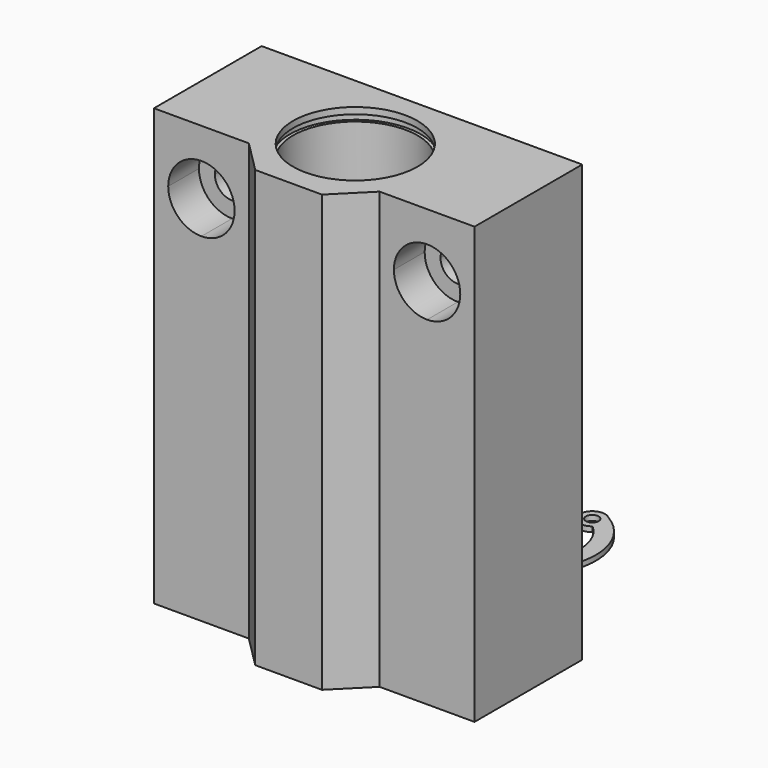
from build123d import *

# Parameters (mm, degrees)
F0_W      = 12.8
F0_H      = 8
F0_W_2    = 2
F1_DEPTH  = 68
F2_DEPTH  = 32.4
F3_DEPTH  = 2
F4_DEPTH  = 1
F5_R      = 9.7
F5_R_2    = 8.5
F6_DEPTH  = 32.4
F5_R_3    = 10.2
F7_DEPTH  = 2
F8_DEPTH  = 1
F10_DEPTH = 21
F11_DEPTH = 15
F12_R     = 1
F13_DEPTH = 0.8


with BuildPart() as f1:
    # F0 (on Top) → F1 (new body)
    with BuildSketch(Plane.XY):
        Polygon((-10.2, 13), (-25, 13), (-25, 5), (-23, 3), (-23, 0), (-10.2, 0), align=None)
        with BuildLine():
            Line((0, 13), (-10.2, 13))
            Line((-10.2, 13), (-10.2, 0))
            ThreePointArc((-10.2, 0), (-7.2124891681, 7.2124891681), (0, 10.2))
            Line((0, 10.2), (0, 13))
        make_face()
        with BuildLine():
            Line((10.2, 13), (0, 13))
            Line((0, 13), (0, 10.2))
            ThreePointArc((0, 10.2), (7.2124891681, 7.2124891681), (10.2, 0))
            Line((10.2, 0), (10.2, 13))
        make_face()
        Polygon((25, 13), (10.2, 13), (10.2, 0), (23, 0), (23, 3), (25, 5), align=None)
        with BuildLine():
            ThreePointArc((0, -10.2), (-3.3496268449, -9.6343136756), (-6.3277168078, -8))
            Line((-6.3277168078, -8), (-10.2, -8))
            Line((-10.2, -8), (-5.2, -13))
            Line((-5.2, -13), (0, -13))
            Line((0, -13), (0, -10.2))
        make_face()
        with Locations((-16.6, -4)):
            Rectangle(F0_W, F0_H)
        with BuildLine():
            ThreePointArc((-6.3277168078, -8), (-9.1810323886, -4.4439446756), (-10.2, 0))
            Line((-10.2, 0), (-10.2, -8))
            Line((-10.2, -8), (-6.3277168078, -8))
        make_face()
        with Locations((16.6, -4)):
            Rectangle(F0_W, F0_H)
        with BuildLine():
            Line((10.2, -8), (10.2, 0))
            ThreePointArc((10.2, 0), (9.1810323886, -4.4439446756), (6.3277168078, -8))
            Line((6.3277168078, -8), (10.2, -8))
        make_face()
        with BuildLine():
            ThreePointArc((6.3277168078, -8), (3.3496268449, -9.6343136756), (0, -10.2))
            Line((0, -10.2), (0, -13))
            Line((0, -13), (5.2, -13))
            Line((5.2, -13), (10.2, -8))
            Line((10.2, -8), (6.3277168078, -8))
        make_face()
        with BuildLine():
            Line((-9.7, 0), (-10.2, 0))
            ThreePointArc((-10.2, 0), (-9.1810323886, -4.4439446756), (-6.3277168078, -8))
            Line((-6.3277168078, -8), (-5.4854352608, -8))
            ThreePointArc((-5.4854352608, -8), (-8.5819205901, -4.5211324892), (-9.7, 0))
        make_face()
        with BuildLine():
            Line((-5.4854352608, -8), (-6.3277168078, -8))
            ThreePointArc((-6.3277168078, -8), (-3.3496268449, -9.6343136756), (0, -10.2))
            Line((0, -10.2), (0, -9.7))
            ThreePointArc((0, -9.7), (-2.8714108031, -9.2652576866), (-5.4854352608, -8))
        make_face()
        with BuildLine():
            Line((0, -9.7), (0, -10.2))
            ThreePointArc((0, -10.2), (3.3496268449, -9.6343136756), (6.3277168078, -8))
            Line((6.3277168078, -8), (5.4854352608, -8))
            ThreePointArc((5.4854352608, -8), (2.8714108031, -9.2652576866), (0, -9.7))
        make_face()
        with BuildLine():
            ThreePointArc((6.3277168078, -8), (9.1810323886, -4.4439446756), (10.2, 0))
            Line((10.2, 0), (9.7, 0))
            ThreePointArc((9.7, 0), (8.5819205901, -4.5211324892), (5.4854352608, -8))
            Line((5.4854352608, -8), (6.3277168078, -8))
        make_face()
        with BuildLine():
            ThreePointArc((10.2, 0), (7.2124891681, 7.2124891681), (0, 10.2))
            Line((0, 10.2), (0, 9.7))
            ThreePointArc((0, 9.7), (6.8589357775, 6.8589357775), (9.7, 0))
            Line((9.7, 0), (10.2, 0))
        make_face()
        with BuildLine():
            ThreePointArc((0, 10.2), (-7.2124891681, 7.2124891681), (-10.2, 0))
            Line((-10.2, 0), (-9.7, 0))
            ThreePointArc((-9.7, 0), (-6.8589357775, 6.8589357775), (0, 9.7))
            Line((0, 9.7), (0, 10.2))
        make_face()
        with BuildLine():
            ThreePointArc((0, 9.7), (-6.8589357775, 6.8589357775), (-9.7, 0))
            Line((-9.7, 0), (-8.5, 0))
            ThreePointArc((-8.5, 0), (-6.0104076401, 6.0104076401), (0, 8.5))
            Line((0, 8.5), (0, 9.7))
        make_face()
        with BuildLine():
            Line((-8.5, 0), (-9.7, 0))
            ThreePointArc((-9.7, 0), (-8.5819205901, -4.5211324892), (-5.4854352608, -8))
            Line((-5.4854352608, -8), (-2.8722813233, -8))
            ThreePointArc((-2.8722813233, -8), (-6.9521360476, -4.8905832348), (-8.5, 0))
        make_face()
        with BuildLine():
            Line((-2.8722813233, -8), (-5.4854352608, -8))
            ThreePointArc((-5.4854352608, -8), (-2.8714108031, -9.2652576866), (0, -9.7))
            Line((0, -9.7), (0, -8.5))
            ThreePointArc((0, -8.5), (-1.4577379737, -8.3740671122), (-2.8722813233, -8))
        make_face()
        with BuildLine():
            Line((0, -8.5), (0, -9.7))
            ThreePointArc((0, -9.7), (2.8714108031, -9.2652576866), (5.4854352608, -8))
            Line((5.4854352608, -8), (2.8722813233, -8))
            ThreePointArc((2.8722813233, -8), (1.4577379737, -8.3740671122), (0, -8.5))
        make_face()
        with BuildLine():
            ThreePointArc((5.4854352608, -8), (8.5819205901, -4.5211324892), (9.7, 0))
            Line((9.7, 0), (8.5, 0))
            ThreePointArc((8.5, 0), (6.9521360476, -4.8905832348), (2.8722813233, -8))
            Line((2.8722813233, -8), (5.4854352608, -8))
        make_face()
        with BuildLine():
            ThreePointArc((9.7, 0), (6.8589357775, 6.8589357775), (0, 9.7))
            Line((0, 9.7), (0, 8.5))
            ThreePointArc((0, 8.5), (6.0104076401, 6.0104076401), (8.5, 0))
            Line((8.5, 0), (9.7, 0))
        make_face()
        with Locations((24, -4)):
            Rectangle(F0_W_2, F0_H)
        Polygon((25, 3), (25, 5), (23, 3), (23, 0), (25, 0), align=None)
        with Locations((-24, -4)):
            Rectangle(F0_W_2, F0_H)
        Polygon((-23, 3), (-25, 5), (-25, 3), (-25, 0), (-23, 0), align=None)
    extrude(amount=F1_DEPTH)

    # F0 (on Top) → F2 (cut)
    with BuildSketch(Plane.XY):
        with BuildLine():
            Line((-8.5, 0), (-9.7, 0))
            ThreePointArc((-9.7, 0), (-8.5819205901, -4.5211324892), (-5.4854352608, -8))
            Line((-5.4854352608, -8), (-2.8722813233, -8))
            ThreePointArc((-2.8722813233, -8), (-6.9521360476, -4.8905832348), (-8.5, 0))
        make_face()
        with BuildLine():
            Line((-2.8722813233, -8), (-5.4854352608, -8))
            ThreePointArc((-5.4854352608, -8), (-2.8714108031, -9.2652576866), (0, -9.7))
            Line((0, -9.7), (0, -8.5))
            ThreePointArc((0, -8.5), (-1.4577379737, -8.3740671122), (-2.8722813233, -8))
        make_face()
        with BuildLine():
            Line((0, -8.5), (0, -9.7))
            ThreePointArc((0, -9.7), (2.8714108031, -9.2652576866), (5.4854352608, -8))
            Line((5.4854352608, -8), (2.8722813233, -8))
            ThreePointArc((2.8722813233, -8), (1.4577379737, -8.3740671122), (0, -8.5))
        make_face()
        with BuildLine():
            ThreePointArc((5.4854352608, -8), (8.5819205901, -4.5211324892), (9.7, 0))
            Line((9.7, 0), (8.5, 0))
            ThreePointArc((8.5, 0), (6.9521360476, -4.8905832348), (2.8722813233, -8))
            Line((2.8722813233, -8), (5.4854352608, -8))
        make_face()
        with BuildLine():
            ThreePointArc((9.7, 0), (6.8589357775, 6.8589357775), (0, 9.7))
            Line((0, 9.7), (0, 8.5))
            ThreePointArc((0, 8.5), (6.0104076401, 6.0104076401), (8.5, 0))
            Line((8.5, 0), (9.7, 0))
        make_face()
        with BuildLine():
            ThreePointArc((0, 9.7), (-6.8589357775, 6.8589357775), (-9.7, 0))
            Line((-9.7, 0), (-8.5, 0))
            ThreePointArc((-8.5, 0), (-6.0104076401, 6.0104076401), (0, 8.5))
            Line((0, 8.5), (0, 9.7))
        make_face()
    extrude(amount=F2_DEPTH, mode=Mode.SUBTRACT)

    # F0 (on Top) → F3 (cut)
    with BuildSketch(Plane.XY):
        with BuildLine():
            Line((0, -9.7), (0, -10.2))
            ThreePointArc((0, -10.2), (3.3496268449, -9.6343136756), (6.3277168078, -8))
            Line((6.3277168078, -8), (5.4854352608, -8))
            ThreePointArc((5.4854352608, -8), (2.8714108031, -9.2652576866), (0, -9.7))
        make_face()
        with BuildLine():
            ThreePointArc((6.3277168078, -8), (9.1810323886, -4.4439446756), (10.2, 0))
            Line((10.2, 0), (9.7, 0))
            ThreePointArc((9.7, 0), (8.5819205901, -4.5211324892), (5.4854352608, -8))
            Line((5.4854352608, -8), (6.3277168078, -8))
        make_face()
        with BuildLine():
            ThreePointArc((10.2, 0), (7.2124891681, 7.2124891681), (0, 10.2))
            Line((0, 10.2), (0, 9.7))
            ThreePointArc((0, 9.7), (6.8589357775, 6.8589357775), (9.7, 0))
            Line((9.7, 0), (10.2, 0))
        make_face()
        with BuildLine():
            ThreePointArc((0, 10.2), (-7.2124891681, 7.2124891681), (-10.2, 0))
            Line((-10.2, 0), (-9.7, 0))
            ThreePointArc((-9.7, 0), (-6.8589357775, 6.8589357775), (0, 9.7))
            Line((0, 9.7), (0, 10.2))
        make_face()
        with BuildLine():
            Line((-9.7, 0), (-10.2, 0))
            ThreePointArc((-10.2, 0), (-9.1810323886, -4.4439446756), (-6.3277168078, -8))
            Line((-6.3277168078, -8), (-5.4854352608, -8))
            ThreePointArc((-5.4854352608, -8), (-8.5819205901, -4.5211324892), (-9.7, 0))
        make_face()
        with BuildLine():
            Line((-5.4854352608, -8), (-6.3277168078, -8))
            ThreePointArc((-6.3277168078, -8), (-3.3496268449, -9.6343136756), (0, -10.2))
            Line((0, -10.2), (0, -9.7))
            ThreePointArc((0, -9.7), (-2.8714108031, -9.2652576866), (-5.4854352608, -8))
        make_face()
    extrude(amount=F3_DEPTH, mode=Mode.SUBTRACT)

    # F0 (on Top) → F4 (join)
    with BuildSketch(Plane.XY):
        with BuildLine():
            Line((-9.7, 0), (-10.2, 0))
            ThreePointArc((-10.2, 0), (-9.1810323886, -4.4439446756), (-6.3277168078, -8))
            Line((-6.3277168078, -8), (-5.4854352608, -8))
            ThreePointArc((-5.4854352608, -8), (-8.5819205901, -4.5211324892), (-9.7, 0))
        make_face()
        with BuildLine():
            Line((-5.4854352608, -8), (-6.3277168078, -8))
            ThreePointArc((-6.3277168078, -8), (-3.3496268449, -9.6343136756), (0, -10.2))
            Line((0, -10.2), (0, -9.7))
            ThreePointArc((0, -9.7), (-2.8714108031, -9.2652576866), (-5.4854352608, -8))
        make_face()
        with BuildLine():
            Line((0, -9.7), (0, -10.2))
            ThreePointArc((0, -10.2), (3.3496268449, -9.6343136756), (6.3277168078, -8))
            Line((6.3277168078, -8), (5.4854352608, -8))
            ThreePointArc((5.4854352608, -8), (2.8714108031, -9.2652576866), (0, -9.7))
        make_face()
        with BuildLine():
            ThreePointArc((6.3277168078, -8), (9.1810323886, -4.4439446756), (10.2, 0))
            Line((10.2, 0), (9.7, 0))
            ThreePointArc((9.7, 0), (8.5819205901, -4.5211324892), (5.4854352608, -8))
            Line((5.4854352608, -8), (6.3277168078, -8))
        make_face()
        with BuildLine():
            ThreePointArc((10.2, 0), (7.2124891681, 7.2124891681), (0, 10.2))
            Line((0, 10.2), (0, 9.7))
            ThreePointArc((0, 9.7), (6.8589357775, 6.8589357775), (9.7, 0))
            Line((9.7, 0), (10.2, 0))
        make_face()
        with BuildLine():
            ThreePointArc((0, 10.2), (-7.2124891681, 7.2124891681), (-10.2, 0))
            Line((-10.2, 0), (-9.7, 0))
            ThreePointArc((-9.7, 0), (-6.8589357775, 6.8589357775), (0, 9.7))
            Line((0, 9.7), (0, 10.2))
        make_face()
    extrude(amount=F4_DEPTH)

    # F5 (on face) → F6 (cut)
    with BuildSketch(Plane.XY.offset(68)):
        Circle(F5_R)
        Circle(F5_R_2, mode=Mode.SUBTRACT)
    extrude(amount=-F6_DEPTH, mode=Mode.SUBTRACT)

    # F5 (on face) → F7 (cut)
    with BuildSketch(Plane.XY.offset(68)):
        Circle(F5_R_3)
        Circle(F5_R, mode=Mode.SUBTRACT)
    extrude(amount=-F7_DEPTH, mode=Mode.SUBTRACT)

    # F5 (on face) → F8 (join)
    with BuildSketch(Plane.XY.offset(68)):
        Circle(F5_R_3)
        Circle(F5_R, mode=Mode.SUBTRACT)
    extrude(amount=-F8_DEPTH)

    # F9 (on face) → F10 (cut)
    with BuildSketch(Plane(origin=(0, 13, 0), x_dir=(-1, 0, 0), z_dir=(0, 1, 0))):
        with BuildLine():
            ThreePointArc((-12.425, 58), (-13.9407224074, 61.6592775926), (-17.6, 63.175))
            Line((-17.6, 63.175), (-17.6, 60.7))
            ThreePointArc((-17.6, 60.7), (-15.6908116908, 59.9091883092), (-14.9, 58))
            ThreePointArc((-14.9, 58), (-15.6908116908, 56.0908116908), (-17.6, 55.3))
            Line((-17.6, 55.3), (-17.6, 52.825))
            ThreePointArc((-17.6, 52.825), (-13.9407224074, 54.3407224074), (-12.425, 58))
        make_face()
        with BuildLine():
            Line((-17.6, 60.7), (-17.6, 63.175))
            ThreePointArc((-17.6, 63.175), (-22.775, 58), (-17.6, 52.825))
            Line((-17.6, 52.825), (-17.6, 55.3))
            ThreePointArc((-17.6, 55.3), (-20.3, 58), (-17.6, 60.7))
        make_face()
        with BuildLine():
            Line((17.6, 60.7), (17.6, 63.175))
            ThreePointArc((17.6, 63.175), (12.425, 58), (17.6, 52.825))
            Line((17.6, 52.825), (17.6, 55.3))
            ThreePointArc((17.6, 55.3), (14.9, 58), (17.6, 60.7))
        make_face()
        with BuildLine():
            ThreePointArc((22.775, 58), (21.2592775926, 61.6592775926), (17.6, 63.175))
            Line((17.6, 63.175), (17.6, 60.7))
            ThreePointArc((17.6, 60.7), (19.5091883092, 59.9091883092), (20.3, 58))
            ThreePointArc((20.3, 58), (19.5091883092, 56.0908116908), (17.6, 55.3))
            Line((17.6, 55.3), (17.6, 52.825))
            ThreePointArc((17.6, 52.825), (21.2592775926, 54.3407224074), (22.775, 58))
        make_face()
        with BuildLine():
            Line((17.6, 55.3), (17.6, 60.7))
            ThreePointArc((17.6, 60.7), (14.9, 58), (17.6, 55.3))
        make_face()
        with BuildLine():
            ThreePointArc((20.3, 58), (19.5091883092, 59.9091883092), (17.6, 60.7))
            Line((17.6, 60.7), (17.6, 55.3))
            ThreePointArc((17.6, 55.3), (19.5091883092, 56.0908116908), (20.3, 58))
        make_face()
        with BuildLine():
            ThreePointArc((-14.9, 58), (-15.6908116908, 59.9091883092), (-17.6, 60.7))
            Line((-17.6, 60.7), (-17.6, 55.3))
            ThreePointArc((-17.6, 55.3), (-15.6908116908, 56.0908116908), (-14.9, 58))
        make_face()
        with BuildLine():
            Line((-17.6, 55.3), (-17.6, 60.7))
            ThreePointArc((-17.6, 60.7), (-20.3, 58), (-17.6, 55.3))
        make_face()
    extrude(amount=-F10_DEPTH, mode=Mode.SUBTRACT)

    # F9 (on face) → F11 (join)
    with BuildSketch(Plane(origin=(0, 13, 0), x_dir=(-1, 0, 0), z_dir=(0, 1, 0))):
        with BuildLine():
            Line((-17.6, 60.7), (-17.6, 63.175))
            ThreePointArc((-17.6, 63.175), (-22.775, 58), (-17.6, 52.825))
            Line((-17.6, 52.825), (-17.6, 55.3))
            ThreePointArc((-17.6, 55.3), (-20.3, 58), (-17.6, 60.7))
        make_face()
        with BuildLine():
            ThreePointArc((-12.425, 58), (-13.9407224074, 61.6592775926), (-17.6, 63.175))
            Line((-17.6, 63.175), (-17.6, 60.7))
            ThreePointArc((-17.6, 60.7), (-15.6908116908, 59.9091883092), (-14.9, 58))
            ThreePointArc((-14.9, 58), (-15.6908116908, 56.0908116908), (-17.6, 55.3))
            Line((-17.6, 55.3), (-17.6, 52.825))
            ThreePointArc((-17.6, 52.825), (-13.9407224074, 54.3407224074), (-12.425, 58))
        make_face()
        with BuildLine():
            Line((17.6, 60.7), (17.6, 63.175))
            ThreePointArc((17.6, 63.175), (12.425, 58), (17.6, 52.825))
            Line((17.6, 52.825), (17.6, 55.3))
            ThreePointArc((17.6, 55.3), (14.9, 58), (17.6, 60.7))
        make_face()
        with BuildLine():
            ThreePointArc((22.775, 58), (21.2592775926, 61.6592775926), (17.6, 63.175))
            Line((17.6, 63.175), (17.6, 60.7))
            ThreePointArc((17.6, 60.7), (19.5091883092, 59.9091883092), (20.3, 58))
            ThreePointArc((20.3, 58), (19.5091883092, 56.0908116908), (17.6, 55.3))
            Line((17.6, 55.3), (17.6, 52.825))
            ThreePointArc((17.6, 52.825), (21.2592775926, 54.3407224074), (22.775, 58))
        make_face()
    extrude(amount=-F11_DEPTH)


with BuildPart() as f13:
    # F12 (on Top) → F13 (new body)
    with BuildSketch(Plane.XY):
        with BuildLine():
            ThreePointArc((-5, 40.1008925547), (-1.6794122544, 41.6029072038), (-5, 43.1049218529))
            ThreePointArc((-5, 43.1049218529), (0, 24.4446678151), (5, 43.1049218529))
            ThreePointArc((5, 43.1049218529), (1.6794122544, 41.6029072038), (5, 40.1008925547))
            Line((5, 40.1008925547), (5, 40.0348377588))
            ThreePointArc((5, 40.0348377588), (0, 26.9446678151), (-5, 40.0348377588))
            Line((-5, 40.0348377588), (-5, 40.1008925547))
        make_face()
        with Locations((-3.6794122544, 41.6029072038)):
            Circle(F12_R, mode=Mode.SUBTRACT)
        with Locations((3.6794122544, 41.6029072038)):
            Circle(F12_R, mode=Mode.SUBTRACT)
    extrude(amount=F13_DEPTH)


solid = Compound([f1.part, f13.part])
